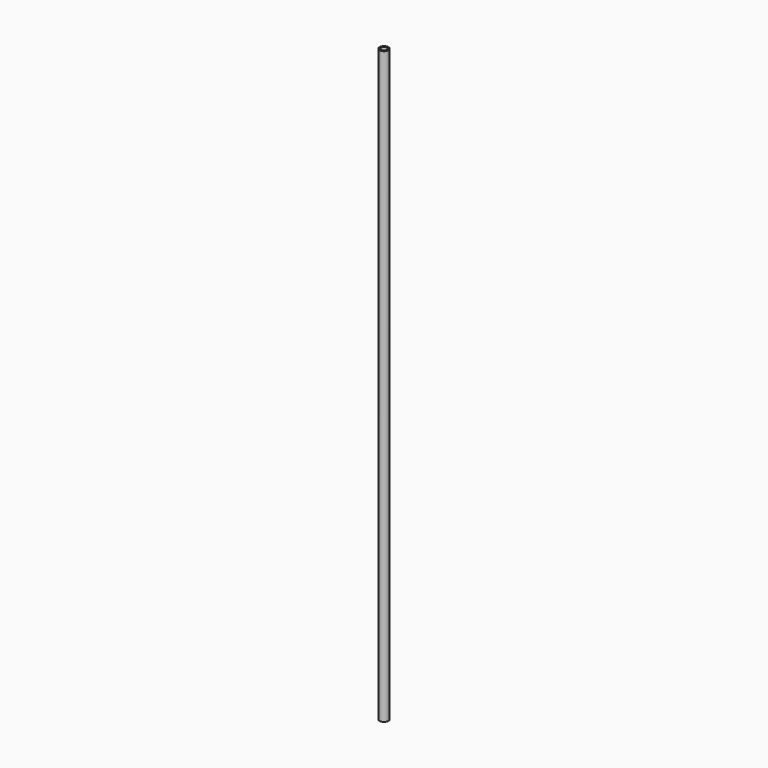
from build123d import *

# Parameters (mm, degrees)
F0_R     = 7.5
F1_DEPTH = 500
F2_R     = 5
F3_DEPTH = 500


with BuildPart() as f1:
    # F0 (on Top) → F1 (new body, symmetric)
    with BuildSketch(Plane.XY):
        Circle(F0_R)
    extrude(amount=F1_DEPTH, both=True)

    # F2 (on Top) → F3 (cut, symmetric)
    with BuildSketch(Plane.XY):
        Circle(F2_R)
    extrude(amount=F3_DEPTH, both=True, mode=Mode.SUBTRACT)


solid = f1.part
